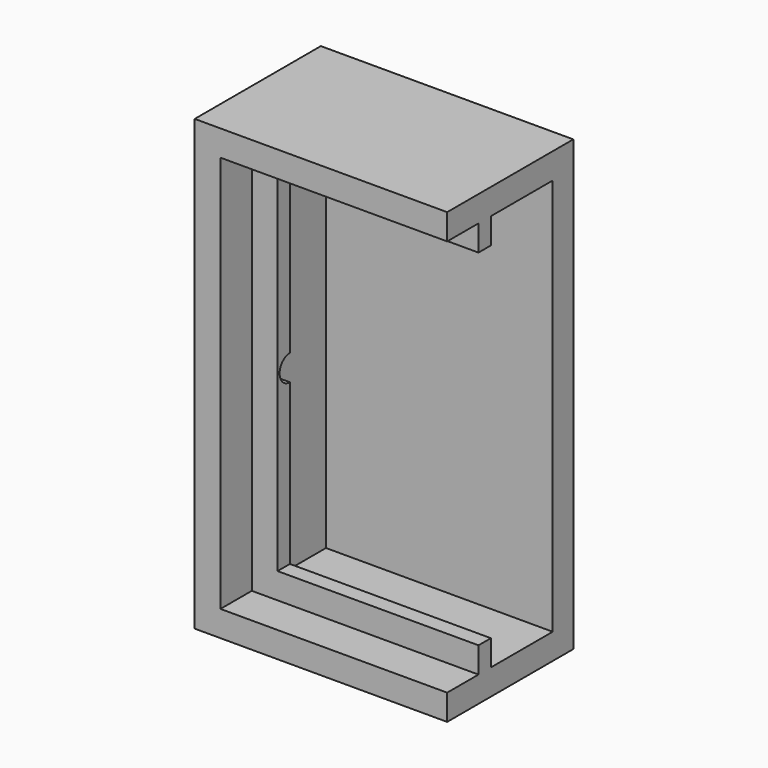
from build123d import *

# Parameters (mm, degrees)
F0_W      = 44
F0_H      = 77.1
F1_DEPTH  = 5
F2_W      = 27.6
F2_H      = 77.1
F3_DEPTH  = 5
F4_W      = 49
F4_H      = 27.6
F5_DEPTH  = 5
F6_W      = 49
F6_H      = 27.6
F7_DEPTH  = 5
F8_W      = 44
F8_H      = 3
F9_DEPTH  = 5
F10_W     = 3
F10_H     = 72.1
F11_DEPTH = 5
F12_W     = 39
F12_H     = 3
F13_DEPTH = 5
F14_W     = 44
F14_H     = 5
F15_DEPTH = 3
F16_R     = 2.5
F17_DEPTH = 12.7


with BuildPart() as f1:
    # F0 (on Front) → F1 (new body)
    with BuildSketch(Plane.XZ):
        with Locations((-0.431709, 22.922463)):
            Rectangle(F0_W, F0_H)
    extrude(amount=F1_DEPTH)

    # F2 (on face) → F3 (join)
    with BuildSketch(Plane(origin=(-22.431709, 0, 0), x_dir=(0, -1, 0), z_dir=(-1, 0, 0))):
        with Locations((13.8, 22.922463)):
            Rectangle(F2_W, F2_H)
    extrude(amount=F3_DEPTH)

    # F4 (on face) → F5 (join)
    with BuildSketch(Plane.XY.offset(61.472463)):
        with Locations((-2.931709, -13.8)):
            Rectangle(F4_W, F4_H)
    extrude(amount=F5_DEPTH)

    # F6 (on face) → F7 (join)
    with BuildSketch(Plane(origin=(0, 0, -15.627537), x_dir=(1, 0, 0), z_dir=(0, 0, -1))):
        with Locations((-2.931709, 13.8)):
            Rectangle(F6_W, F6_H)
    extrude(amount=F7_DEPTH)

    # F8 (on face) → F9 (join)
    with BuildSketch(Plane(origin=(0, 0, 61.472463), x_dir=(1, 0, 0), z_dir=(0, 0, -1))):
        with Locations((-0.431709, 21.5)):
            Rectangle(F8_W, F8_H)
    extrude(amount=F9_DEPTH)

    # F10 (on face) → F11 (join)
    with BuildSketch(Plane.YZ.offset(-22.431709)):
        with Locations((-21.5, 20.422463)):
            Rectangle(F10_W, F10_H)
    extrude(amount=F11_DEPTH)

    # F12 (on face) → F13 (join)
    with BuildSketch(Plane.XY.offset(-15.627537)):
        with Locations((2.068291, -21.5)):
            Rectangle(F12_W, F12_H)
    extrude(amount=F13_DEPTH)

    # F14 (on face) → F15 (join)
    with BuildSketch(Plane.XZ.offset(27.6)):
        Polygon((-27.431709, -20.627537), (21.568291, -20.627537), (21.568291, -15.627537), (-22.431709, -15.627537), (-27.431709, -15.627537), align=None)
        Polygon((-27.431709, 66.472463), (-27.431709, -15.627537), (-22.431709, -15.627537), (-22.431709, 61.472463), (-22.431709, 66.472463), align=None)
        with Locations((-0.431709, 63.972463)):
            Rectangle(F14_W, F14_H)
    extrude(amount=F15_DEPTH)

    # F16 (on face) → F17 (cut, symmetric)
    with BuildSketch(Plane.YZ.offset(-22.431709)):
        with Locations((-20, 22.922463)):
            Circle(F16_R)
    extrude(amount=F17_DEPTH, both=True, mode=Mode.SUBTRACT)


solid = f1.part
